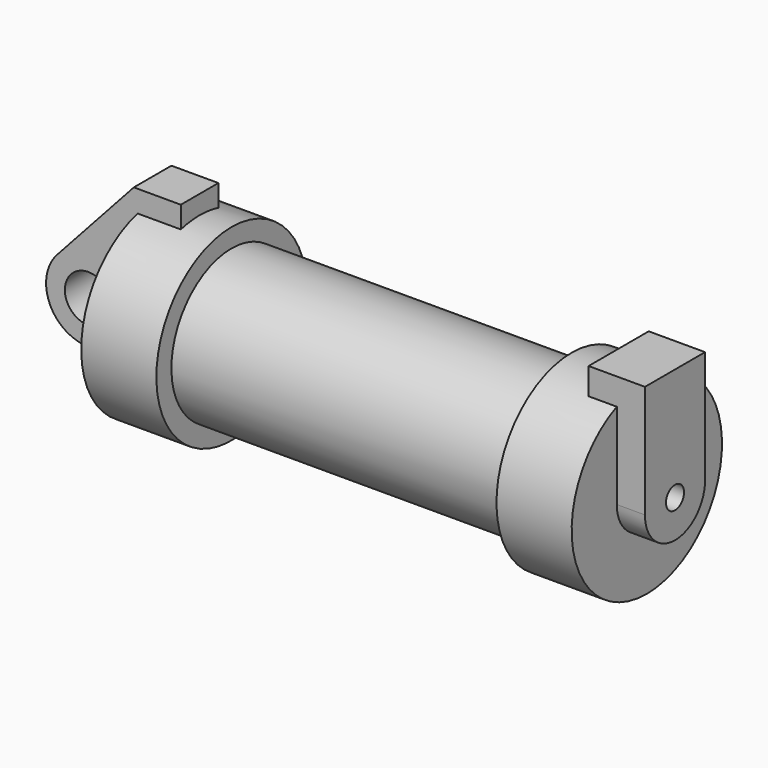
from build123d import *

# Parameters (mm, degrees)
F0_W     = 5.842
F0_H     = 12.7
F0_R     = 3.175
F2_DEPTH = 3.175
F3_R     = 1.524
F4_DEPTH = 3.81


with BuildPart() as f1:
    # F0 (on Front) → F1 (revolve)
    with BuildSketch(Plane.XZ):
        Polygon((5.842, 12.7), (5.842, 0), (66.294, 0), (66.294, 12.7), (56.134, 12.7), (56.134, 10.16), (10.16, 10.16), (10.16, 12.7), align=None)
        with Locations((2.921, 6.35)):
            Rectangle(F0_W, F0_H)
    revolve(axis=Axis((33.147, 0, 0), (-1, 0, 0)))

    # F0 (on Front) → F2 (join, symmetric)
    with BuildSketch(Plane.XZ):
        with BuildLine():
            ThreePointArc((-8.182663, -5.506983), (-3.195791, -4.549339), (-0.9398, 0))
            ThreePointArc((-0.9398, 0), (-4.591961, 5.329721), (-10.88063, 3.847543))
            ThreePointArc((-10.88063, 3.847543), (-12.145978, -1.583727), (-8.182663, -5.506983))
        make_face()
        with Locations((-6.6548, 0)):
            Circle(F0_R, mode=Mode.SUBTRACT)
        with Locations((2.921, 6.35)):
            Rectangle(F0_W, F0_H)
        with BuildLine():
            Line((-0.9398, 0), (0, 0))
            Line((0, 0), (0, 12.7))
            Line((0, 12.7), (5.842, 12.7))
            Line((5.842, 12.7), (5.842, 15.24))
            Line((5.842, 15.24), (-0.508, 15.24))
            Line((-0.508, 15.24), (-10.88063, 3.847543))
            ThreePointArc((-10.88063, 3.847543), (-4.591961, 5.329721), (-0.9398, 0))
        make_face()
        with BuildLine():
            Line((5.842, 0), (0, 0))
            Line((0, 0), (-0.9398, 0))
            ThreePointArc((-0.9398, 0), (-3.195791, -4.549339), (-8.182663, -5.506983))
            Line((-8.182663, -5.506983), (5.842, -9.398))
            Line((5.842, -9.398), (5.842, 0))
        make_face()
    extrude(amount=F2_DEPTH, both=True)

    # F3 (on face) → F4 (join, symmetric)
    with BuildSketch(Plane.YZ.offset(66.294)):
        with BuildLine():
            ThreePointArc((-5.08, 0), (0, -5.08), (5.08, 0))
            ThreePointArc((5.08, 0), (0, 5.08), (-5.08, 0))
        make_face()
        Circle(F3_R, mode=Mode.SUBTRACT)
        with BuildLine():
            ThreePointArc((-5.08, 0), (0, 5.08), (5.08, 0))
            Line((5.08, 0), (5.08, 15.24))
            Line((5.08, 15.24), (-5.08, 15.24))
            Line((-5.08, 15.24), (-5.08, 0))
        make_face()
    extrude(amount=F4_DEPTH, both=True)


solid = f1.part
